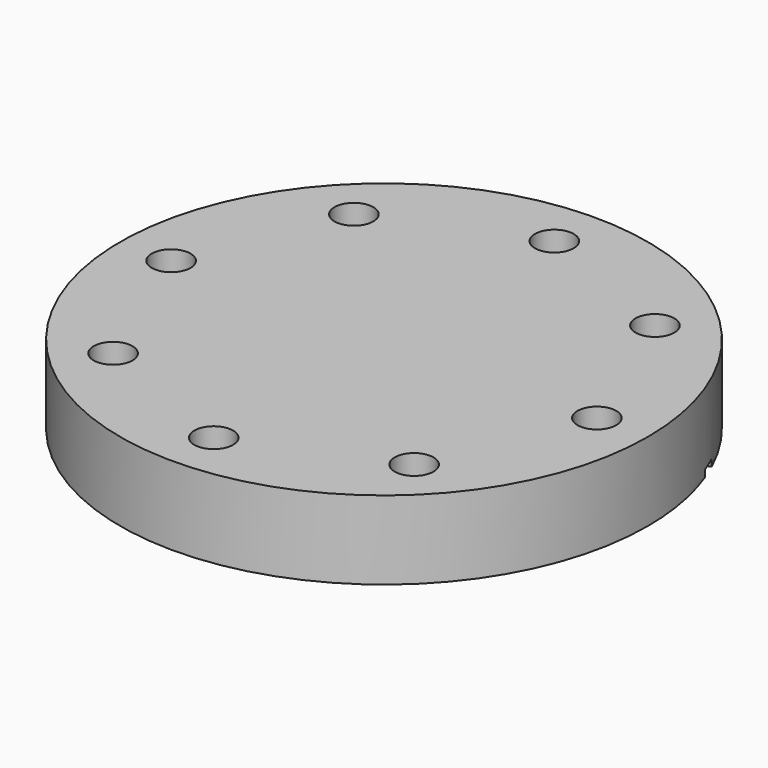
from build123d import *

# Parameters (mm, degrees)
CYLINDER024_R             = 41.25
CYLINDER024_DEPTH         = 1.5
BOX_W                     = 16.9
BOX_H                     = 4
BOX_DEPTH                 = 1.5
BOX001_W                  = 16.9
BOX001_H                  = 4
BOX001_DEPTH              = 1.5
FUSION007_PLACEMENT_ANGLE = 22.5
CYLINDER003_R             = 4.2
CYLINDER003_DEPTH         = 17
ARRAY_COUNT               = 8
CYLINDER002_R             = 38.6
CYLINDER002_DEPTH         = 0.22
CYLINDER001_R             = 41.25
CYLINDER001_DEPTH         = 1.2
CYLINDER_R                = 57.15
CYLINDER_DEPTH            = 17


with BuildPart() as cylinder024:
    # Cylinder024 → Cylinder024 (new body)
    with BuildSketch(Plane.XY):
        Circle(CYLINDER024_R)
    extrude(amount=CYLINDER024_DEPTH)


with BuildPart() as cube:
    # Box → Box (new body)
    with BuildSketch(Plane(origin=(40.75, -2, 0), x_dir=(1, 0, 0), z_dir=(0, 0, 1))):
        with Locations((8.45, 2)):
            Rectangle(BOX_W, BOX_H)
    extrude(amount=BOX_DEPTH)


with BuildPart() as obj1:
    # Box001 → Box001 (new body)
    with BuildSketch(Plane(origin=(-57.65, -2, 0), x_dir=(1, 0, 0), z_dir=(0, 0, 1))):
        with Locations((8.45, 2)):
            Rectangle(BOX001_W, BOX001_H)
    extrude(amount=BOX001_DEPTH)

    # Fusion007: union Cube
    add(cube.part)


with BuildPart() as obj1_1:
    # Fusion007 placement: moved
    add(obj1.part.rotate(Axis((0, 0, 0), (0, 0, 1)), FUSION007_PLACEMENT_ANGLE))

    # Cut019: cut Cylinder024
    add(cylinder024.part, mode=Mode.SUBTRACT)


with BuildPart() as boltholearray:
    # Cylinder003 → Cylinder003 (new body)
    with BuildSketch(Plane(origin=(46.1, 0, 0), x_dir=(1, 0, 0), z_dir=(0, 0, 1))):
        Circle(CYLINDER003_R)
    extrude(amount=CYLINDER003_DEPTH)

    # Array: BoltHoleArray ×8 about axis
    array_axis = Axis((0, 0, 0), (0, 0, 1))


with BuildPart() as boltholearray_1:
    add(boltholearray.part)
    for i in range(1, ARRAY_COUNT):
        add(boltholearray.part.rotate(array_axis, i * 360 / ARRAY_COUNT))


with BuildPart() as cylinder:
    # Cylinder002 → Cylinder002 (new body)
    with BuildSketch(Plane.XY):
        Circle(CYLINDER002_R)
    extrude(amount=CYLINDER002_DEPTH)


with BuildPart() as knifeedge:
    # Cone → Cone (revolve)
    with BuildSketch(Plane.XZ):
        Polygon((0, 0), (38.6, 0), (41.25, 0.22), (0, 0.22), align=None)
    revolve(axis=Axis((0, 0, 0), (0, 0, 1)))

    # Cut001: cut Cylinder
    add(cylinder.part, mode=Mode.SUBTRACT)


with BuildPart() as knifeedge_1:
    # Cut001 placement: moved
    add(knifeedge.part.moved(Location((0, 0, 0.98))))


with BuildPart() as sealrecess:
    # Cylinder001 → Cylinder001 (new body)
    with BuildSketch(Plane.XY):
        Circle(CYLINDER001_R)
    extrude(amount=CYLINDER001_DEPTH)


with BuildPart() as obj2:
    # Cylinder → Cylinder (new body)
    with BuildSketch(Plane.XY):
        Circle(CYLINDER_R)
    extrude(amount=CYLINDER_DEPTH)

    # Cut: cut SealRecess
    add(sealrecess.part, mode=Mode.SUBTRACT)

    # Fusion: union KnifeEdge
    add(knifeedge_1.part)

    # Cut002: cut BoltHoleArray
    add(boltholearray_1.part, mode=Mode.SUBTRACT)

    # Cut020: cut obj1
    add(obj1_1.part, mode=Mode.SUBTRACT)


solid = obj2.part
